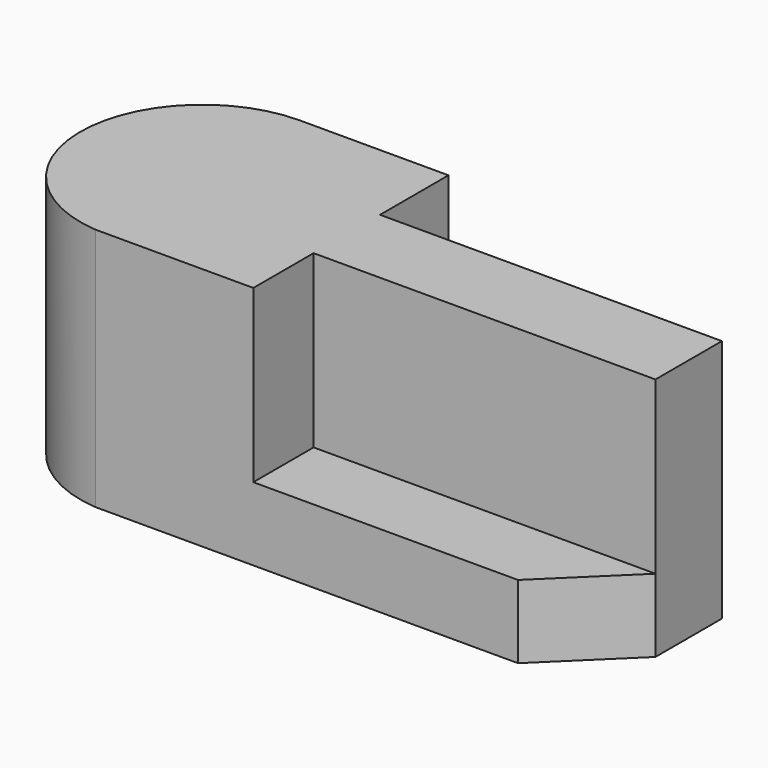
from build123d import *

# Parameters (mm, degrees)
F1_DEPTH = 9
F3_DEPTH = 21


with BuildPart() as f1:
    # F0 (on Top) → F1 (new body)
    with BuildSketch(Plane.XY):
        with BuildLine():
            Line((5.692772, 19.450301), (-3.510716, 29.955687))
            Line((-3.510716, 29.955687), (-54.510716, 29.955687))
            ThreePointArc((-54.510716, 29.955687), (-69.499634, 15.532184), (-55.66286, 0))
            Line((-55.66286, 0), (-3.788572, 0))
            Line((-3.788572, 0), (5.692772, 9.250754))
            Line((5.692772, 9.250754), (5.692772, 19.450301))
        make_face()
    extrude(amount=F1_DEPTH)

    # F2 (on face) → F3 (join)
    with BuildSketch(Plane.XY.offset(9)):
        with BuildLine():
            Line((5.692772, 9.250754), (5.692772, 19.450301))
            Line((5.692772, 19.450301), (-36.291417, 19.450301))
            Line((-36.291417, 19.450301), (-36.291417, 29.955687))
            Line((-36.291417, 29.955687), (-54.510716, 29.955687))
            ThreePointArc((-54.510716, 29.955687), (-69.499634, 15.532184), (-55.66286, 0))
            Line((-55.66286, 0), (-36.291417, 0))
            Line((-36.291417, 0), (-36.291417, 9.250754))
            Line((-36.291417, 9.250754), (5.692772, 9.250754))
        make_face()
    extrude(amount=F3_DEPTH)


solid = f1.part
